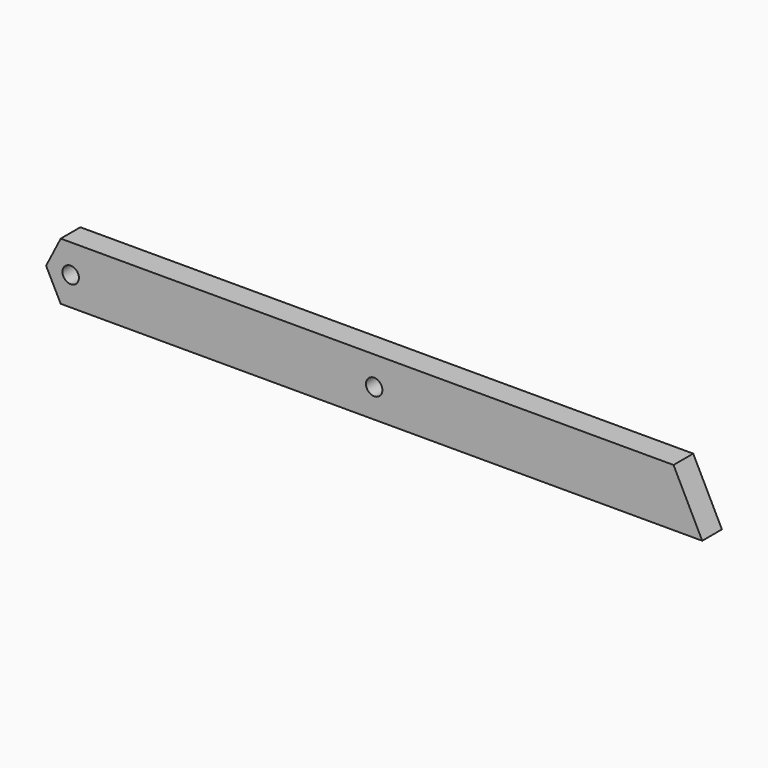
from build123d import *

# Parameters (mm, degrees)
F1_DEPTH = 19.05


with BuildPart() as f1:
    # F0 (on Front) → F1 (new body)
    with BuildSketch(Plane.XZ):
        Polygon((11.324203, 0), (19.05, 0), (508, 0), (485.775, 44.45), (19.05, 44.45), (11.324203, 44.45), (0, 22.225), align=None)
        with BuildLine():
            ThreePointArc((25.4, 22.225), (19.05, 15.875), (12.7, 22.225))
            ThreePointArc((12.7, 22.225), (19.05, 28.575), (25.4, 22.225))
        make_face(mode=Mode.SUBTRACT)
        with BuildLine():
            ThreePointArc((247.65, 22.225), (254, 28.575), (260.35, 22.225))
            ThreePointArc((260.35, 22.225), (254, 15.875), (247.65, 22.225))
        make_face(mode=Mode.SUBTRACT)
    extrude(amount=F1_DEPTH)


solid = f1.part
